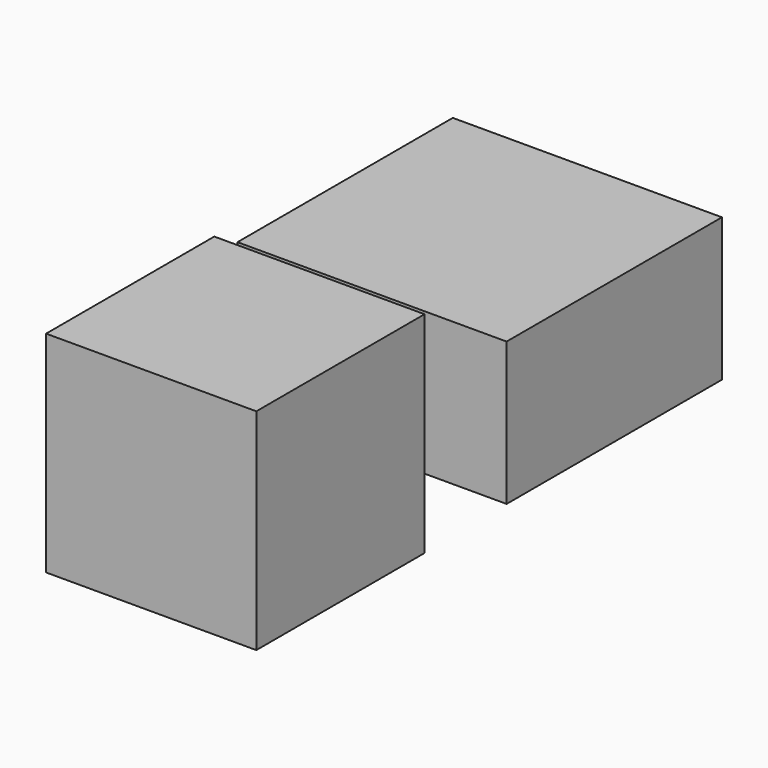
from build123d import *

# Parameters (mm, degrees)
F0_W          = 25
F0_H          = 25
F1_DEPTH      = 12.5
F1_DEPTH_BACK = 12.5
F2_W          = 32
F2_H          = 32
F3_DEPTH      = 8.5
F3_DEPTH_BACK = 8.5


with BuildPart() as f1:
    # F0 (on Top) → F1 (new body, two sides)
    with BuildSketch(Plane.XY) as f1_sk:
        with Locations((12.5, -12.5)):
            Rectangle(F0_W, F0_H)
    extrude(amount=F1_DEPTH)
    extrude(f1_sk.sketch, amount=-F1_DEPTH_BACK)


with BuildPart() as f3:
    # F2 (on Top) → F3 (new body, two sides)
    with BuildSketch(Plane.XY) as f3_sk:
        with Locations((13.585268, 22.46623)):
            Rectangle(F2_W, F2_H)
    extrude(amount=F3_DEPTH)
    extrude(f3_sk.sketch, amount=-F3_DEPTH_BACK)


solid = Compound([f1.part, f3.part])
